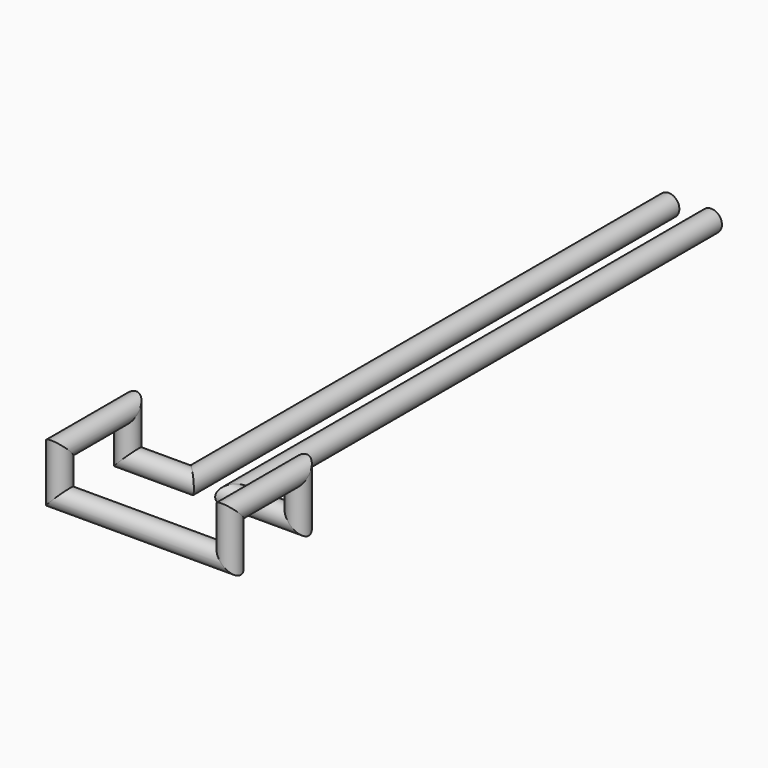
from build123d import *

# Parameters (mm, degrees)
F6_R = 0.5


with BuildPart() as f7:
    # F7: sweep along a path in F0, F4, F0, F2, F0
    with BuildLine(Plane.XY) as f7_path:
        Line((-1, 30), (-1, 2))
        Line((-1, 2), (-4, 2))
    with BuildLine(Plane.YZ.offset(-4)) as f7_path_2:
        Line((2, 0), (2, 2))
        Line((2, 2), (-2, 2))
        Line((-2, 2), (-2, 0))
    with BuildLine(Plane.XY) as f7_path_3:
        Line((-4, -2), (4, -2))
    with BuildLine(Plane.YZ.offset(4)) as f7_path_4:
        Line((-2, 0), (-2, 2))
        Line((-2, 2), (2, 2))
        Line((2, 2), (2, 0))
    with BuildLine(Plane.XY) as f7_path_5:
        Line((4, 2), (1, 2))
        Line((1, 2), (1, 30))
    # F6 (on plane+point) → F7 (sweep)
    with BuildSketch(Plane.XZ.offset(-30)):
        with Locations((-1, 0)):
            Circle(F6_R)
    sweep(path=f7_path.line + f7_path_2.line + f7_path_3.line + f7_path_4.line + f7_path_5.line, transition=Transition.RIGHT)


solid = f7.part
